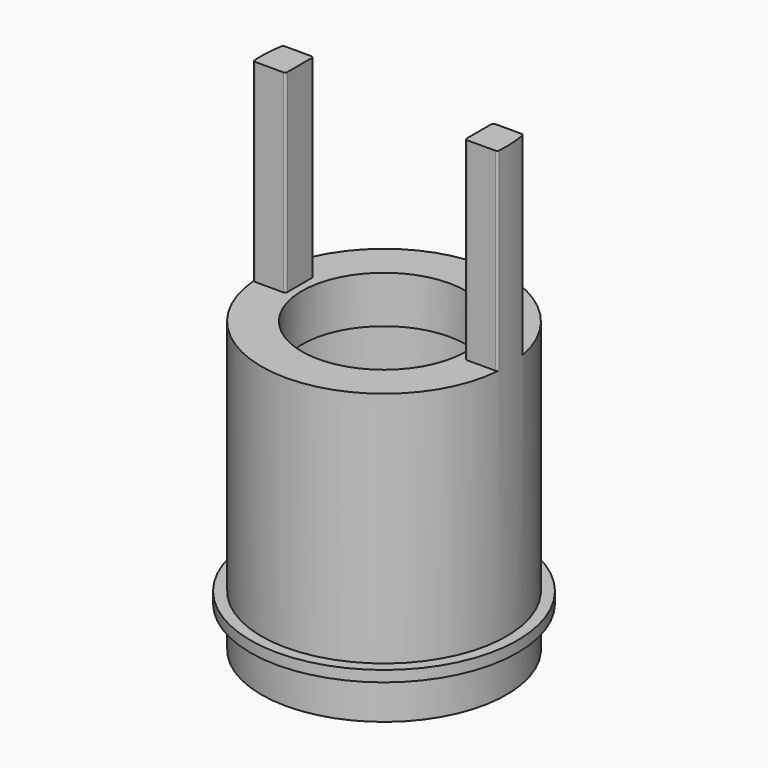
from build123d import *

# Parameters (mm, degrees)
F2_R     = 1.905
F3_DEPTH = 4.4958
F4_R     = 0.0508


with BuildPart() as f1:
    # F0 (on Right) → F1 (revolve)
    with BuildSketch(Plane.YZ):
        Polygon((2.8448, 0), (1.905, 0), (1.905, -5.588), (2.3241, -5.588), (2.3241, -11.2014), (2.8448, -11.2014), (2.8448, -10.2616), (3.0988, -10.2616), (3.0988, -10.0076), (2.8448, -10.0076), align=None)
    revolve(axis=Axis((0, 0, -5.6007), (0, 0, -1)))

    # F2 (on face) → F3 (cut)
    with BuildSketch(Plane.XY):
        with BuildLine():
            ThreePointArc((2.7893779952, 0.5588), (0, 2.8448), (-2.7893779952, 0.5588))
            Line((-2.7893779952, 0.5588), (-2.0828, 0.5588))
            Line((-2.0828, 0.5588), (-2.0828, -0.254))
            Line((-2.0828, -0.254), (-2.8334380247, -0.254))
            ThreePointArc((-2.8334380247, -0.254), (0, -2.8448), (2.8334380247, -0.254))
            Line((2.8334380247, -0.254), (2.0828, -0.254))
            Line((2.0828, -0.254), (2.0828, 0.5588))
            Line((2.0828, 0.5588), (2.7893779952, 0.5588))
        make_face()
        Circle(F2_R, mode=Mode.SUBTRACT)
    extrude(amount=-F3_DEPTH, mode=Mode.SUBTRACT)

    # F4
    f4_edges = [f1.edges().sort_by_distance(p)[0] for p in [
        (-2.789378, 0.5588, -2.2479),
        (-2.0828, 0.5588, -2.2479),
        (-2.0828, -0.254, -2.2479),
        (-2.833438, -0.254, -2.2479),
        (2.0828, -0.254, -2.2479),
        (2.833438, -0.254, -2.2479),
        (2.789378, 0.5588, -2.2479),
        (2.0828, 0.5588, -2.2479),
    ]]
    fillet(f4_edges, radius=F4_R)


solid = f1.part
